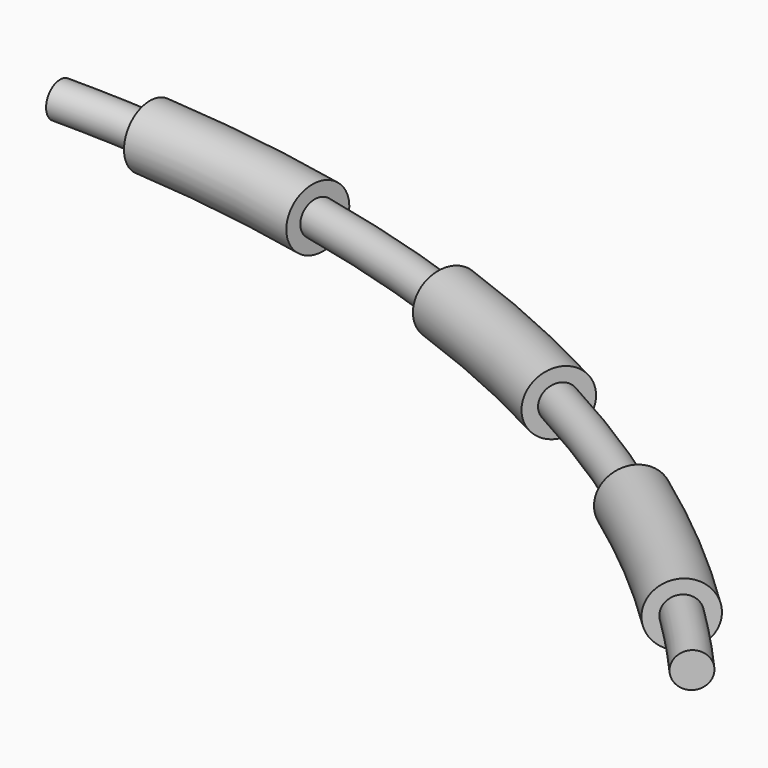
from build123d import *

# Parameters (mm, degrees)
EXTRUDE_DEPTH                     = 15
EXTRUDE_ONTO_SKETCH003_ROLL_ANGLE = 90
SKETCH002_R                       = 4.5
SKETCH001_R                       = 2.5
FUSION_ROLL_ANGLE                 = 90


with BuildPart() as extrude_body:
    # Sketch003 as drawn → Extrude (new)
    with BuildSketch(Plane.XY):
        Polygon((-1.083342, -7.49699), (13.908532, -7.003301), (12.838542, 7.958487), (-1, 7.502778), align=None)
        Polygon((41.700168, -2.988655), (66.671438, 4.25295), (61.542375, 18.348791), (38.492156, 11.664285), align=None)
        Polygon((92.299066, 15.729757), (114.329996, 29.537121), (105.53454, 41.68784), (85.198459, 28.942682), align=None)
        Polygon((125.963239, 58.925722), (136.461263, 48.211643), (146.763604, 59.114017), (135.473017, 68.989372), align=None)
    extrude(amount=-EXTRUDE_DEPTH)


with BuildPart() as extrude_body_1:
    # Extrude onto Sketch003 roll: moved
    add(extrude_body.part.rotate(Axis((0, 0, 0), (1, 0, 0)), EXTRUDE_ONTO_SKETCH003_ROLL_ANGLE))


with BuildPart() as extrude_body_2:
    # Extrude onto Sketch003 placement: moved
    add(extrude_body_1.part.moved(Location((0, -7, 0))))


with BuildPart() as cut:
    # Sweep001: sweep along a path in Sketch
    with BuildLine(Plane.XZ) as sweep001_path:
        ThreePointArc((0, 0), (77.031518, 16.556214), (140.457946, 63.300744))
    # Sketch002 → Sweep001 (sweep)
    with BuildSketch(Plane(origin=(0, 0, 0), x_dir=(0, -1, 0), z_dir=(-1, 0, 0))):
        Circle(SKETCH002_R)
    sweep(path=sweep001_path.line)

    # Cut: cut Extrude body
    add(extrude_body_2.part, mode=Mode.SUBTRACT)


with BuildPart() as fusion:
    # Sweep: sweep along a path in Sketch
    with BuildLine(Plane.XZ) as sweep_path:
        ThreePointArc((0, 0), (77.031518, 16.556214), (140.457946, 63.300744))
    # Sketch001 → Sweep (sweep)
    with BuildSketch(Plane(origin=(0, 0, 0), x_dir=(0, -1, 0), z_dir=(-1, 0, 0))):
        Circle(SKETCH001_R)
    sweep(path=sweep_path.line)

    # Fusion: union Cut
    add(cut.part)


with BuildPart() as fusion_1:
    # Fusion roll: moved
    add(fusion.part.rotate(Axis((0, 0, 0), (1, 0, 0)), FUSION_ROLL_ANGLE))


with BuildPart() as fusion_2:
    # Fusion placement: moved
    add(fusion_1.part)


solid = fusion_2.part
